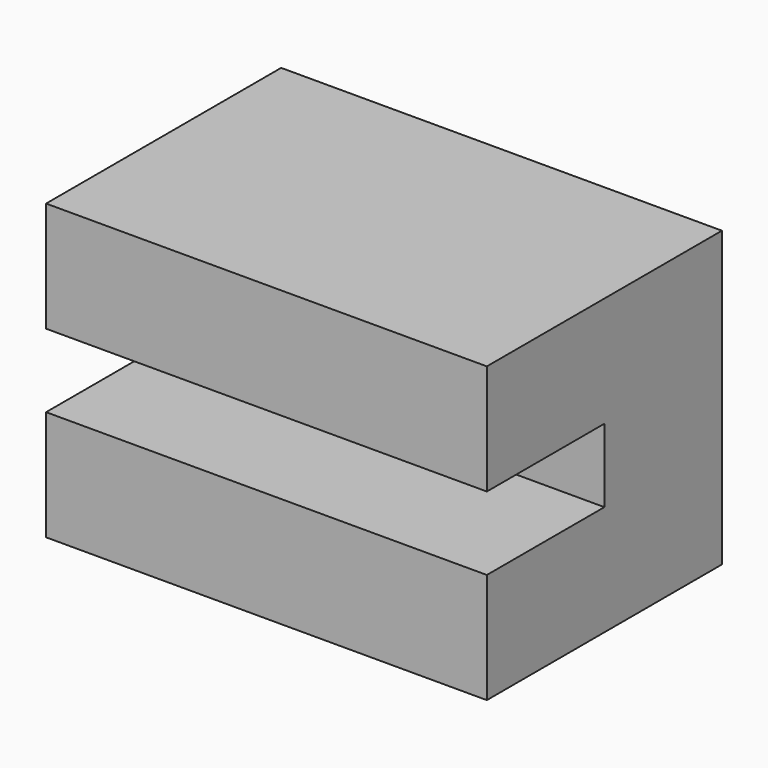
from build123d import *

# Parameters (mm, degrees)
F0_W     = 15
F0_H     = 5
F1_DEPTH = 30


with BuildPart() as f1:
    # F0 (on Right) → F1 (new body)
    with BuildSketch(Plane.YZ):
        Polygon((0, 7.5), (0, 0), (5, 0), (5, 5), (5, 7.5), align=None)
        with Locations((12.5, 2.5)):
            Rectangle(F0_W, F0_H)
        Polygon((5, 7.5), (5, 5), (20, 5), (20, 15), (5, 15), (5, 12.5), (10, 12.5), (10, 7.5), align=None)
        with Locations((12.5, 17.5)):
            Rectangle(F0_W, F0_H)
        Polygon((5, 12.5), (5, 15), (5, 20), (0, 20), (0, 12.5), align=None)
    extrude(amount=F1_DEPTH)


solid = f1.part
